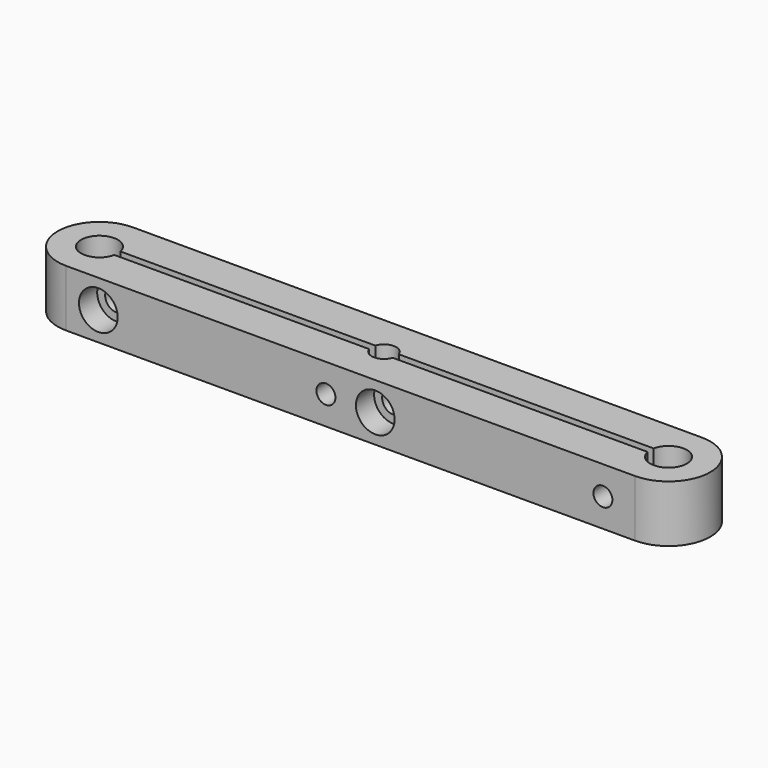
from build123d import *

# Parameters (mm, degrees)
F0_R      = 4.85
F0_R_2    = 3.25
F1_DEPTH  = 15
F3_DEPTH  = 15.001
F4_R      = 2.5
F5_DEPTH  = 22.001
F6_R      = 3
F7_DEPTH  = 10
F8_R      = 3
F9_DEPTH  = 10
F10_R     = 5.1
F11_DEPTH = 6
F12_R     = 5.1
F13_DEPTH = 6


with BuildPart() as f1:
    # F0 (on Top) → F1 (new body)
    with BuildSketch(Plane.XY):
        with BuildLine():
            Line((-75, -11), (0, -11))
            Line((0, -11), (75, -11))
            ThreePointArc((75, -11), (86, 0), (75, 11))
            Line((75, 11), (0, 11))
            Line((0, 11), (-75, 11))
            ThreePointArc((-75, 11), (-86, 0), (-75, -11))
        make_face()
        with Locations((-75, 0)):
            Circle(F0_R, mode=Mode.SUBTRACT)
        Circle(F0_R_2, mode=Mode.SUBTRACT)
        with Locations((75, 0)):
            Circle(F0_R, mode=Mode.SUBTRACT)
    extrude(amount=F1_DEPTH)

    # F2 (on face) → F3 (cut, through all)
    with BuildSketch(Plane.XY.offset(15)):
        Polygon((75, -1), (75, 1), (0, 1), (-75, 1), (-75, -1), (0, -1), align=None)
    extrude(amount=-F3_DEPTH, mode=Mode.SUBTRACT)

    # F4 (on face) → F5 (cut, through all)
    with BuildSketch(Plane.XZ.offset(11)):
        with Locations((-66.5, 7.5)):
            Circle(F4_R)
        with Locations((66.5, 7.5)):
            Circle(F4_R)
        with Locations((-6.5, 7.5)):
            Circle(F4_R)
        with Locations((6.5, 7.5)):
            Circle(F4_R)
    extrude(amount=-F5_DEPTH, mode=Mode.SUBTRACT)

    # F6 (on face) → F7 (cut, through all)
    with BuildSketch(Plane.XZ.offset(11)):
        with Locations((-66.5, 7.5)):
            Circle(F6_R)
        with Locations((6.5, 7.5)):
            Circle(F6_R)
    extrude(amount=-F7_DEPTH, mode=Mode.SUBTRACT)

    # F8 (on face) → F9 (cut, through all)
    with BuildSketch(Plane(origin=(0, 11, 0), x_dir=(-1, 0, 0), z_dir=(0, 1, 0))):
        with Locations((-66.5, 7.5)):
            Circle(F8_R)
        with Locations((6.5, 7.5)):
            Circle(F8_R)
    extrude(amount=-F9_DEPTH, mode=Mode.SUBTRACT)

    # F10 (on face) → F11 (cut)
    with BuildSketch(Plane.XZ.offset(11)):
        with Locations((-66.5, 7.5)):
            Circle(F10_R)
        with Locations((6.5, 7.5)):
            Circle(F10_R)
    extrude(amount=-F11_DEPTH, mode=Mode.SUBTRACT)

    # F12 (on face) → F13 (cut)
    with BuildSketch(Plane(origin=(0, 11, 0), x_dir=(-1, 0, 0), z_dir=(0, 1, 0))):
        with Locations((-66.5, 7.5)):
            Circle(F12_R)
        with Locations((6.5, 7.5)):
            Circle(F12_R)
    extrude(amount=-F13_DEPTH, mode=Mode.SUBTRACT)


solid = f1.part
